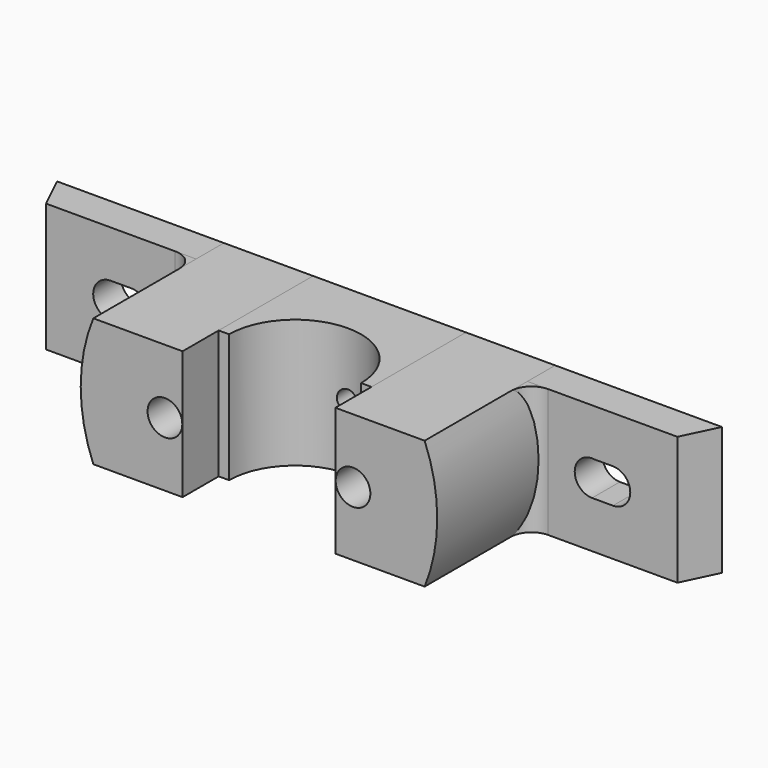
from build123d import *

# Parameters (mm, degrees)
F0_W      = 11.4
F0_H      = 37
F1_DEPTH  = 10
F0_R      = 5
F2_DEPTH  = 47
F0_W_2    = 38
F0_R_2    = 3
F3_DEPTH  = 34
F5_DEPTH  = 127
F7_DEPTH  = 101.6
F9_DEPTH  = 101.6
F11_DEPTH = 37
F13_DEPTH = 37
F14_DEPTH = 7.112


with BuildPart() as f1:
    # F0 (on Front) → F1 (new body)
    with BuildSketch(Plane.XZ):
        with BuildLine():
            Line((-62.839533, 18.009954), (-99.469533, 18.009954))
            Line((-99.469533, 18.009954), (-99.469533, -18.990046))
            Line((-99.469533, -18.990046), (-62.839533, -18.990046))
            ThreePointArc((-62.839533, -18.990046), (-66.466083, -0.490046), (-62.839533, 18.009954))
        make_face()
        with BuildLine():
            ThreePointArc((-87.469533, -5.490046), (-92.469533, -0.490046), (-87.469533, 4.509954))
            Line((-87.469533, 4.509954), (-81.469533, 4.509954))
            ThreePointArc((-81.469533, 4.509954), (-76.469533, -0.490046), (-81.469533, -5.490046))
            Line((-81.469533, -5.490046), (-87.469533, -5.490046))
        make_face(mode=Mode.SUBTRACT)
        with BuildLine():
            Line((36.610467, 18.009954), (32.600617, 18.009954))
            ThreePointArc((32.600617, 18.009954), (36.227167, -0.490046), (32.600617, -18.990046))
            Line((32.600617, -18.990046), (36.610467, -18.990046))
            Line((36.610467, -18.990046), (69.230617, -18.990046))
            Line((69.230617, -18.990046), (69.230617, 18.009954))
            Line((69.230617, 18.009954), (36.610467, 18.009954))
        make_face()
        with BuildLine():
            ThreePointArc((57.230617, 4.509954), (62.230617, -0.490046), (57.230617, -5.490046))
            Line((57.230617, -5.490046), (51.230617, -5.490046))
            ThreePointArc((51.230617, -5.490046), (46.247393, -0.047209), (52.051637, 4.509954))
            Line((52.051637, 4.509954), (57.230617, 4.509954))
        make_face(mode=Mode.SUBTRACT)
        with Locations((74.930617, -0.490046)):
            Rectangle(F0_W, F0_H)
        with Locations((-105.169533, -0.490046)):
            Rectangle(F0_W, F0_H)
    extrude(amount=F1_DEPTH)

    # F6 (on face) → F7 (cut)
    with BuildSketch(Plane(origin=(0, 0, -18.990046), x_dir=(1, 0, 0), z_dir=(0, 0, -1))):
        Polygon((-110.869533, 0), (-106.042653, 10), (-110.869533, 10), align=None)
    extrude(amount=-F7_DEPTH, mode=Mode.SUBTRACT)

    # F8 (on face) → F9 (cut)
    with BuildSketch(Plane(origin=(0, 0, -18.990046), x_dir=(1, 0, 0), z_dir=(0, 0, -1))):
        Polygon((75.804617, 10), (80.630617, 0), (80.630617, 10), align=None)
    extrude(amount=-F9_DEPTH, mode=Mode.SUBTRACT)


with BuildPart() as f2:
    # F0 (on Front) → F2 (new body)
    with BuildSketch(Plane.XZ):
        with BuildLine():
            Line((-53.949533, 18.009954), (-62.839533, 18.009954))
            ThreePointArc((-62.839533, 18.009954), (-66.466083, -0.490046), (-62.839533, -18.990046))
            Line((-62.839533, -18.990046), (-53.949533, -18.990046))
            ThreePointArc((-53.949533, -18.990046), (-58.132656, -0.490046), (-53.949533, 18.009954))
        make_face()
        with BuildLine():
            Line((32.600617, 18.009954), (23.710617, 18.009954))
            ThreePointArc((23.710617, 18.009954), (27.893739, -0.490046), (23.710617, -18.990046))
            Line((23.710617, -18.990046), (32.600617, -18.990046))
            ThreePointArc((32.600617, -18.990046), (36.227167, -0.490046), (32.600617, 18.009954))
        make_face()
        with BuildLine():
            Line((-37.129533, 18.009954), (-53.949533, 18.009954))
            ThreePointArc((-53.949533, 18.009954), (-58.132656, -0.490046), (-53.949533, -18.990046))
            Line((-53.949533, -18.990046), (-37.129533, -18.990046))
            Line((-37.129533, -18.990046), (-37.129533, -0.490046))
            Line((-37.129533, -0.490046), (-37.129533, 18.009954))
        make_face()
        with Locations((-42.209533, -0.490046)):
            Circle(F0_R, mode=Mode.SUBTRACT)
        with BuildLine():
            Line((23.710617, 18.009954), (6.890617, 18.009954))
            Line((6.890617, 18.009954), (6.890617, -0.490046))
            Line((6.890617, -0.490046), (6.890617, -18.990046))
            Line((6.890617, -18.990046), (23.710617, -18.990046))
            ThreePointArc((23.710617, -18.990046), (27.893739, -0.490046), (23.710617, 18.009954))
        make_face()
        with BuildLine():
            ThreePointArc((16.970617, -0.490046), (11.970617, -5.490046), (6.970617, -0.490046))
            ThreePointArc((6.970617, -0.490046), (11.970617, 4.509954), (16.970617, -0.490046))
        make_face(mode=Mode.SUBTRACT)
    extrude(amount=F2_DEPTH)


with BuildPart() as f3:
    # F0 (on Front) → F3 (new body)
    with BuildSketch(Plane.XZ):
        Polygon((-34.129533, 18.009954), (-37.129533, 18.009954), (-37.129533, -0.490046), (-37.129533, -18.990046), (-34.129533, -18.990046), align=None)
        Polygon((6.890617, 18.009954), (3.870467, 18.009954), (3.870467, -18.990046), (6.890617, -18.990046), (6.890617, -0.490046), align=None)
        with Locations((-15.129533, -0.490046)):
            Rectangle(F0_W_2, F0_H)
        with Locations((-15.106261, -0.490046)):
            Circle(F0_R_2, mode=Mode.SUBTRACT)
    extrude(amount=F3_DEPTH)

    # F4 (on face) → F5 (cut)
    with BuildSketch(Plane(origin=(0, 0, -18.990046), x_dir=(1, 0, 0), z_dir=(0, 0, -1))):
        with BuildLine():
            ThreePointArc((-34.129533, 34), (-15.119458, 14.989925), (3.890617, 34))
            Line((3.890617, 34), (-34.129533, 34))
        make_face()
    extrude(amount=-F5_DEPTH, mode=Mode.SUBTRACT)

    # F0 (on Front) → F14 (join)
    with BuildSketch(Plane.XZ):
        with Locations((-15.106261, -0.490046)):
            Circle(F0_R_2)
    extrude(amount=F14_DEPTH)


with BuildPart() as f11:
    # F10 (on face) → F11 (new body)
    with BuildSketch(Plane(origin=(0, 0, -18.990046), x_dir=(1, 0, 0), z_dir=(0, 0, -1))):
        with BuildLine():
            Line((32.600617, 10), (38.600617, 10))
            ThreePointArc((38.600617, 10), (34.357977, 11.757359), (32.600617, 16))
            Line((32.600617, 16), (32.600617, 10))
        make_face()
    extrude(amount=-F11_DEPTH)


with BuildPart() as f13:
    # F12 (on face) → F13 (new body)
    with BuildSketch(Plane(origin=(0, 0, -18.990046), x_dir=(1, 0, 0), z_dir=(0, 0, -1))):
        with BuildLine():
            ThreePointArc((-62.839533, 16), (-64.596893, 11.757359), (-68.839533, 10))
            Line((-68.839533, 10), (-62.839533, 10))
            Line((-62.839533, 10), (-62.839533, 16))
        make_face()
    extrude(amount=-F13_DEPTH)


solid = Compound([f1.part, f2.part, f3.part, f11.part, f13.part])
